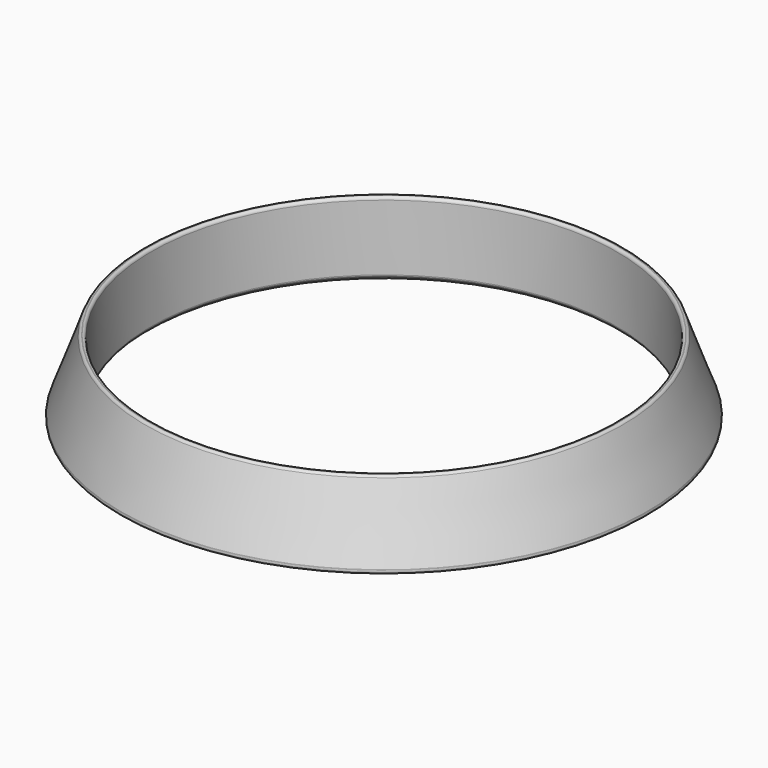
from build123d import *


with BuildPart() as f2:
    # F0 (on Right) → F2 (revolve)
    with BuildSketch(Plane.YZ):
        with BuildLine():
            ThreePointArc((41.95171, 0.14879), (42.116517, 0.038669), (42.31092, 0))
            Line((42.31092, 0), (46.348918, 0))
            ThreePointArc((46.348918, 0), (46.765048, 0.216623), (46.826282, 0.681746))
            Line((46.826282, 0.681746), (46.797072, 0.762))
            Line((46.797072, 0.762), (41.384129, 0.762))
            ThreePointArc((41.384129, 0.762), (41.429027, 0.682972), (41.48729, 0.61321))
            Line((41.48729, 0.61321), (41.95171, 0.14879))
        make_face()
        with BuildLine():
            Line((41.384129, 0.762), (46.797072, 0.762))
            Line((46.797072, 0.762), (42.407247, 12.822946))
            ThreePointArc((42.407247, 12.822946), (42.22126, 13.065329), (41.929883, 13.1572))
            Line((41.929883, 13.1572), (41.8465, 13.1572))
            ThreePointArc((41.8465, 13.1572), (41.48729, 13.00841), (41.3385, 12.6492))
            Line((41.3385, 12.6492), (41.3385, 0.97242))
            ThreePointArc((41.3385, 0.97242), (41.350038, 0.864765), (41.384129, 0.762))
        make_face()
    revolve(axis=Axis((0, 0, 4.76073), (0, 0, -1)))


solid = f2.part
